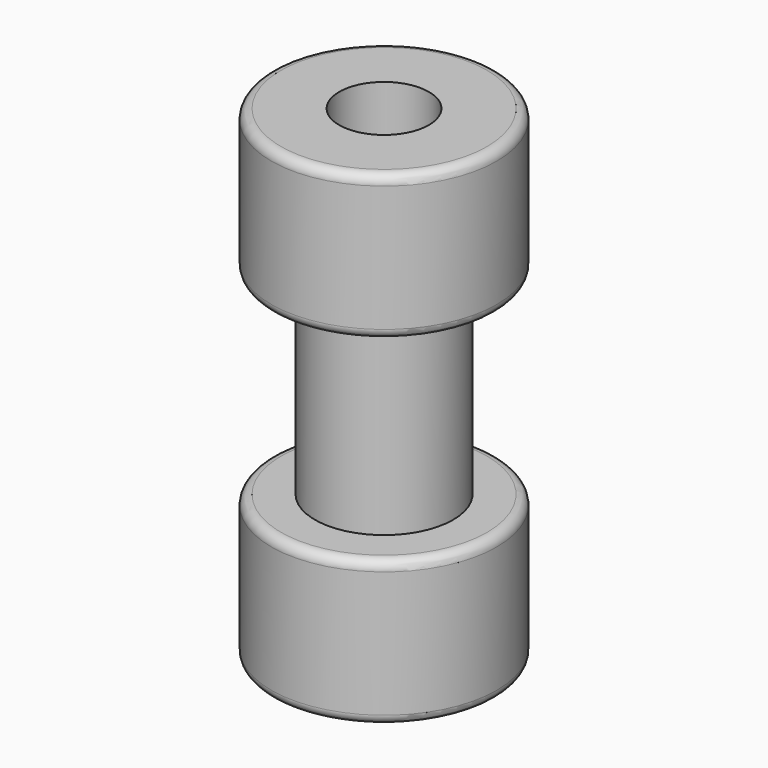
from build123d import *

# Parameters (mm, degrees)
F2_R = 0.508
F3_R = 0.508


with BuildPart() as f1:
    # F0 (on Front) → F1 (revolve)
    with BuildSketch(Plane.XZ):
        Polygon((5.9055, 10.234522), (5.9055, 17.854522), (2.3495, 17.854522), (2.3495, -7.545478), (5.9055, -7.545478), (5.9055, 0.074522), (3.6195, 0.074522), (3.6195, 10.234522), align=None)
    revolve(axis=Axis((0, 0, 1.306427), (0, 0, 1)))

    # F2
    f2_edges = [f1.edges().sort_by_distance(p)[0] for p in [
        (-5.9055, 0, 17.854522),
        (-5.9055, 0, 10.234522),
        (-5.9055, 0, 0.074522),
    ]]
    fillet(f2_edges, radius=F2_R)

    # F3
    f3_edges = [f1.edges().sort_by_distance(p)[0] for p in [
        (-5.9055, 0, -7.545478),
    ]]
    fillet(f3_edges, radius=F3_R)


solid = f1.part
